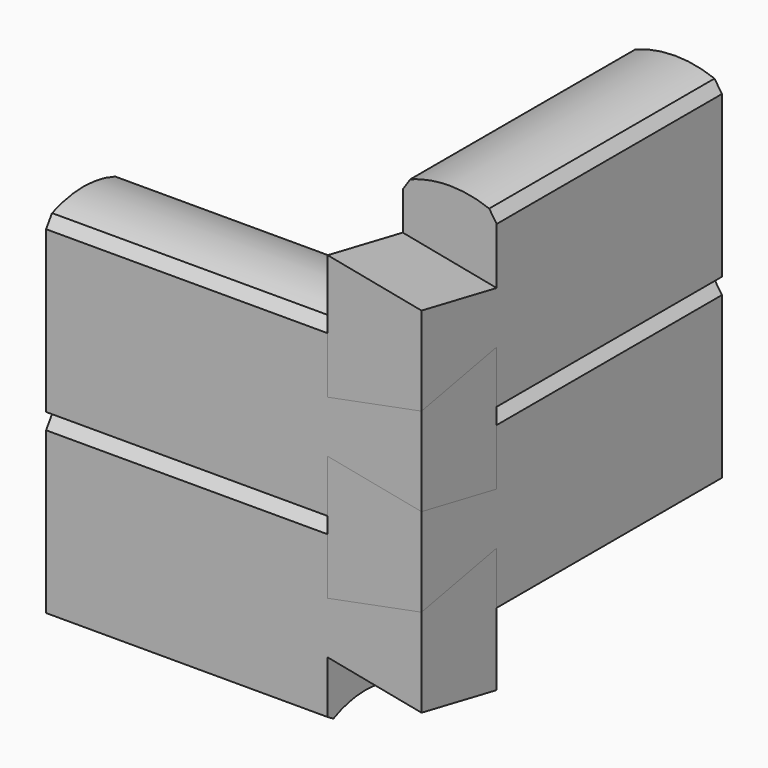
from build123d import *

# Parameters (mm, degrees)
PART_MIRRORING002_PLACEMENT_ANGLE = 90
SKETCH009_W                       = 35
SKETCH009_H                       = 70
PAD001_DEPTH                      = 35
PAD_DEPTH                         = 140
CHAMFER_SIZE                      = 3
PART_MIRRORING001_PLACEMENT_ANGLE = 90


with BuildPart() as joint_cutter:
    # Sketch001 → AdditiveLoft section 0
    with BuildSketch(Plane.XZ):
        Polygon((-35, 112), (-35, 42), (0, 48.803311), (0, 112), align=None)
    # Sketch002 → AdditiveLoft section 1
    with BuildSketch(Plane(origin=(0, 35, 6.803311), x_dir=(1, 0, 0), z_dir=(0, -1, 0))):
        Polygon((-35, 112), (-35, 42), (0, 48.803311), (0, 112), align=None)
    loft()


with BuildPart() as part_mirroring002:
    # Part__Mirroring002: instance of Joint cutter
    add(joint_cutter.part.mirror(Plane(origin=(0, 0, 0), x_dir=(1, 0, 0), z_dir=(0, 1, 0))))


with BuildPart() as part_mirroring002_1:
    # Part__Mirroring002 placement: moved
    add(part_mirroring002.part.moved(Location((0, 0, -33))).rotate(Axis((0, 0, -33), (0, 0, -1)), PART_MIRRORING002_PLACEMENT_ANGLE))


with BuildPart() as cut003:
    # Sketch009 → Pad001 (new body)
    with BuildSketch(Plane.YZ):
        with Locations((17.5, 35)):
            Rectangle(SKETCH009_W, SKETCH009_H)
    extrude(amount=-PAD001_DEPTH)

    # Cut003: cut Part__Mirroring002
    add(part_mirroring002_1.part, mode=Mode.SUBTRACT)


with BuildPart() as timber_with_fillets:
    # Sketch → Pad (new body)
    with BuildSketch(Plane.YZ):
        with BuildLine():
            Line((0, 0), (0, 66))
            ThreePointArc((35, 66), (17.5, 69.9), (0, 66))
            Line((35, 66), (35, 0))
            ThreePointArc((35, 0), (17.5, 4.7), (0, 0))
        make_face()
    extrude(amount=-PAD_DEPTH)

    # Chamfer
    chamfer_edges = [timber_with_fillets.edges().sort_by_distance(p)[0] for p in [
        (-70, 0, 66),
        (-70, 35, 66),
        (-70, 0, 0),
        (-70, 35, 0),
    ]]
    chamfer(chamfer_edges, length=CHAMFER_SIZE)

    # Cut: cut Joint cutter
    add(joint_cutter.part, mode=Mode.SUBTRACT)

    # Cut001: cut Cut003
    add(cut003.part, mode=Mode.SUBTRACT)


with BuildPart() as timber_with_fillets001:
    # Clone003 base: copy of Timber with fillets
    add(timber_with_fillets.part)


with BuildPart() as part_mirroring001:
    # Part__Mirroring001: instance of Timber with fillets001
    add(timber_with_fillets001.part.mirror(Plane(origin=(0, 0, 0), x_dir=(0, -1, 0), z_dir=(1, 0, 0))))


with BuildPart() as part_mirroring001_1:
    # Part__Mirroring001 placement: moved
    add(part_mirroring001.part.moved(Location((0, 0, 33))).rotate(Axis((0, 0, 33), (0, 0, 1)), PART_MIRRORING001_PLACEMENT_ANGLE))


with BuildPart() as timber_with_bottom_joint_cut002:
    # Clone001 base: copy of Timber with fillets001
    add(timber_with_fillets001.part)


with BuildPart() as timber_with_bottom_joint_cut002_1:
    # Clone001 placement: moved
    add(timber_with_bottom_joint_cut002.part.moved(Location((0, 0, -66))))


with BuildPart() as clone002:
    # Clone002 base: copy of Part__Mirroring001
    add(part_mirroring001_1.part)


with BuildPart() as clone002_1:
    # Clone002 placement: moved
    add(clone002.part.moved(Location((0, 0, -66))))


solid = Compound([timber_with_fillets.part, part_mirroring001_1.part, timber_with_bottom_joint_cut002_1.part, clone002_1.part])
